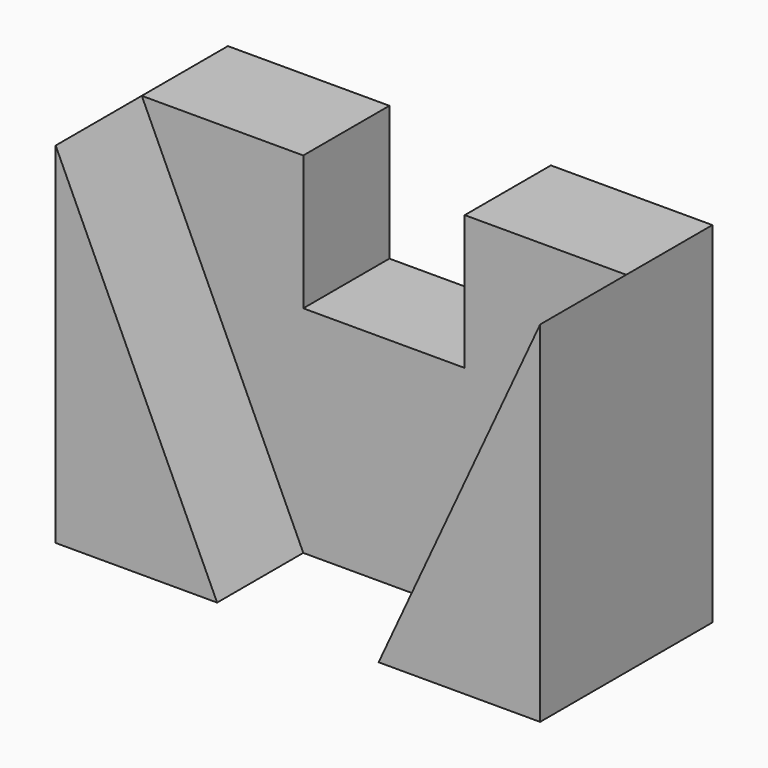
from build123d import *

# Parameters (mm, degrees)
F0_W     = 900
F0_H     = 400
F1_DEPTH = 650
F3_DEPTH = 200
F4_W     = 300
F4_H     = 500
F5_DEPTH = 200.001


with BuildPart() as f1:
    # F0 (on Top) → F1 (new body)
    with BuildSketch(Plane.XY):
        Rectangle(F0_W, F0_H)
    extrude(amount=F1_DEPTH)

    # F2 (on face) → F3 (cut)
    with BuildSketch(Plane.XZ.offset(200)):
        Polygon((450, 650), (-450, 650), (-150, 0), (150, 0), align=None)
    extrude(amount=-F3_DEPTH, mode=Mode.SUBTRACT)

    # F4 (on face) → F5 (cut, through all)
    with BuildSketch(Plane.XZ):
        with Locations((0, 650)):
            Rectangle(F4_W, F4_H)
    extrude(amount=-F5_DEPTH, mode=Mode.SUBTRACT)


solid = f1.part
